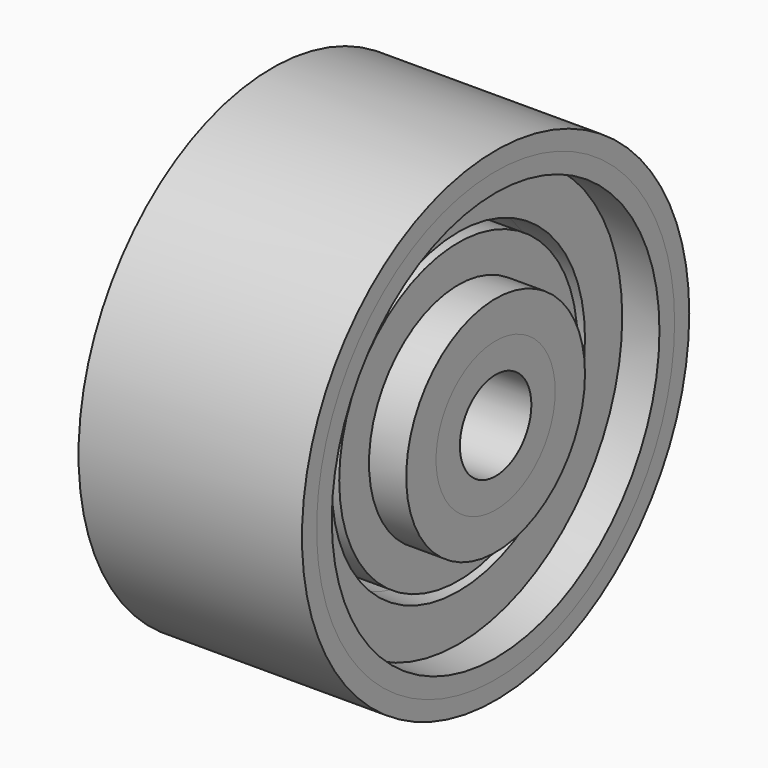
from build123d import *

# Parameters (mm, degrees)
F0_R      = 20.6375
F0_R_2    = 19.05
F1_DEPTH  = 19.05
F2_R      = 19.05
F2_R_2    = 17.4625
F3_DEPTH  = 3.175
F4_R      = 19.05
F4_R_2    = 13.49375
F5_DEPTH  = 3.175
F6_R      = 19.05
F6_R_2    = 13.49375
F7_DEPTH  = 3.175
F8_R      = 19.05
F8_R_2    = 13.49375
F9_DEPTH  = 3.175
F10_R     = 19.05
F10_R_2   = 13.49375
F11_DEPTH = 3.175
F12_R     = 19.0754
F12_R_2   = 17.4625
F13_DEPTH = 3.175
F14_R     = 9.525
F14_R_2   = 6.35
F15_DEPTH = 3.175
F14_R_3   = 3.81
F16_DEPTH = 19.05
F17_R     = 12.7
F17_R_2   = 6.35
F18_DEPTH = 3.175
F19_R     = 12.7
F19_R_2   = 6.35
F20_DEPTH = 3.175
F21_R     = 12.7
F21_R_2   = 6.35
F22_DEPTH = 3.175
F23_R     = 12.7
F23_R_2   = 6.35
F24_DEPTH = 3.175
F25_R     = 9.525
F25_R_2   = 6.35
F26_DEPTH = 3.175


with BuildPart() as f1:
    # F0 (on Right) → F1 (new body)
    with BuildSketch(Plane.YZ):
        Circle(F0_R)
        Circle(F0_R_2, mode=Mode.SUBTRACT)
    extrude(amount=F1_DEPTH)

    # F2 (on Right) → F3 (join)
    with BuildSketch(Plane.YZ):
        Circle(F2_R)
        Circle(F2_R_2, mode=Mode.SUBTRACT)
    extrude(amount=F3_DEPTH)


with BuildPart() as f5:
    # F4 (on face) → F5 (new body)
    with BuildSketch(Plane.YZ.offset(3.175)):
        Circle(F4_R)
        Circle(F4_R_2, mode=Mode.SUBTRACT)
    extrude(amount=F5_DEPTH)


with BuildPart() as f7:
    # F6 (on face) → F7 (new body)
    with BuildSketch(Plane.YZ.offset(9.525)):
        Circle(F6_R)
        Circle(F6_R_2, mode=Mode.SUBTRACT)
    extrude(amount=F7_DEPTH)


with BuildPart() as f9:
    # F8 (on face) → F9 (new body)
    with BuildSketch(Plane.YZ.offset(6.35)):
        Circle(F8_R)
        Circle(F8_R_2, mode=Mode.SUBTRACT)
    extrude(amount=F9_DEPTH)


with BuildPart() as f11:
    # F10 (on face) → F11 (new body)
    with BuildSketch(Plane.YZ.offset(12.7)):
        Circle(F10_R)
        Circle(F10_R_2, mode=Mode.SUBTRACT)
    extrude(amount=F11_DEPTH)


with BuildPart() as f13:
    # F12 (on face) → F13 (new body)
    with BuildSketch(Plane.YZ.offset(15.875)):
        Circle(F12_R)
        Circle(F12_R_2, mode=Mode.SUBTRACT)
    extrude(amount=F13_DEPTH)


with BuildPart() as f15:
    # F14 (on Right) → F15 (new body)
    with BuildSketch(Plane.YZ):
        Circle(F14_R)
        Circle(F14_R_2, mode=Mode.SUBTRACT)
    extrude(amount=F15_DEPTH)

    # F14 (on Right) → F16 (join, through all)
    with BuildSketch(Plane.YZ):
        Circle(F14_R_2)
        Circle(F14_R_3, mode=Mode.SUBTRACT)
    extrude(amount=F16_DEPTH)


with BuildPart() as f18:
    # F17 (on face) → F18 (new body)
    with BuildSketch(Plane.YZ.offset(6.35)):
        Circle(F17_R)
        Circle(F17_R_2, mode=Mode.SUBTRACT)
    extrude(amount=F18_DEPTH)


with BuildPart() as f20:
    # F19 (on face) → F20 (new body)
    with BuildSketch(Plane.YZ.offset(9.525)):
        Circle(F19_R)
        Circle(F19_R_2, mode=Mode.SUBTRACT)
    extrude(amount=F20_DEPTH)


with BuildPart() as f22:
    # F21 (on face) → F22 (new body)
    with BuildSketch(Plane.YZ.offset(12.7)):
        Circle(F21_R)
        Circle(F21_R_2, mode=Mode.SUBTRACT)
    extrude(amount=F22_DEPTH)


with BuildPart() as f24:
    # F23 (on face) → F24 (new body)
    with BuildSketch(Plane.YZ.offset(3.175)):
        Circle(F23_R)
        Circle(F23_R_2, mode=Mode.SUBTRACT)
    extrude(amount=F24_DEPTH)


with BuildPart() as f26:
    # F25 (on face) → F26 (new body)
    with BuildSketch(Plane.YZ.offset(15.875)):
        Circle(F25_R)
        Circle(F25_R_2, mode=Mode.SUBTRACT)
    extrude(amount=F26_DEPTH)


solid = Compound([f1.part, f5.part, f7.part, f9.part, f11.part, f13.part, f15.part, f18.part, f20.part, f22.part, f24.part, f26.part])
